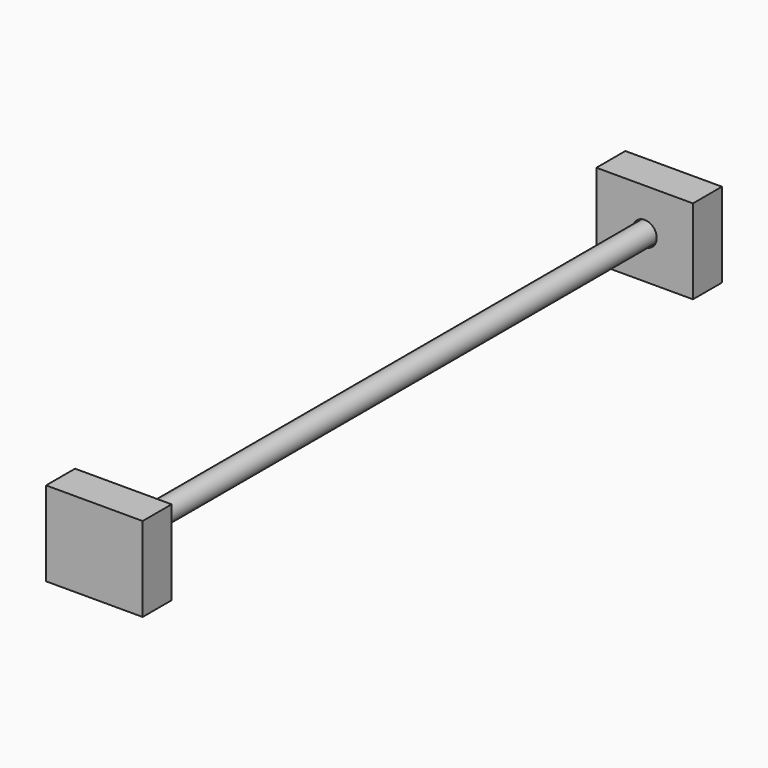
from build123d import *

# Parameters (mm, degrees)
F1_DEPTH = 101.6
F2_R     = 12.7
F3_DEPTH = 711.2
F4_R     = 12.7
F5_DEPTH = 711.2
F6_R     = 11.43
F7_DEPTH = 736.6


with BuildPart() as f1:
    # F0 (on Right) → F1 (new body)
    with BuildSketch(Plane.YZ):
        Polygon((-342.9, -44.45), (-342.9, 0), (-342.9, 44.45), (-381, 44.45), (-381, -44.45), align=None)
        Polygon((342.9, 44.45), (342.9, 0), (342.9, -44.45), (381, -44.45), (381, 44.45), align=None)
    extrude(amount=F1_DEPTH)

    # F2 (on face) → F3 (cut)
    with BuildSketch(Plane(origin=(0, -342.9, 0), x_dir=(-1, 0, 0), z_dir=(0, 1, 0))):
        with Locations((-50.8, 0)):
            Circle(F2_R)
    extrude(amount=F3_DEPTH, mode=Mode.SUBTRACT)

    # F4 (on face) → F5 (cut)
    with BuildSketch(Plane.XZ.offset(-342.9)):
        with Locations((50.8, 0)):
            Circle(F4_R)
    extrude(amount=F5_DEPTH, mode=Mode.SUBTRACT)


with BuildPart() as f7:
    # F6 (on face) → F7 (new body)
    with BuildSketch(Plane(origin=(0, -368.3, 0), x_dir=(-1, 0, 0), z_dir=(0, 1, 0))):
        with Locations((-50.8, 0)):
            Circle(F6_R)
    extrude(amount=F7_DEPTH)


solid = Compound([f1.part, f7.part])
